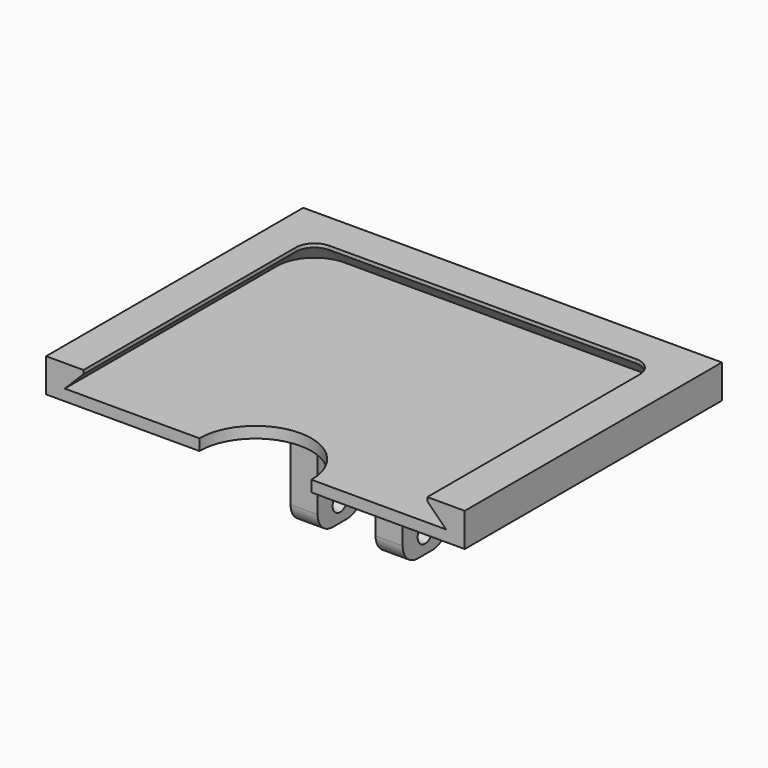
from build123d import *

# Parameters (mm, degrees)
F1_DEPTH  = 6
F2_R      = 5
F3_SIZE   = 5
F5_DEPTH  = 3
F6_W      = 15
F6_H      = 30
F6_R      = 2.5
F7_DEPTH  = 15
F8_DEPTH  = 7.75
F9_W      = 30
F9_H      = 15
F10_DEPTH = 2
F11_R     = 5


with BuildPart() as f1:
    # F0 (on Top) → F1 (new body)
    with BuildSketch(Plane.XY):
        Polygon((-46, -38), (-46, 38), (46, 38), (46, -38), (56.0000004172, -38), (56.0000004172, 48.0000004172), (-56.0000004172, 48.0000004172), (-56.0000004172, -38), align=None)
    extrude(amount=F1_DEPTH)

    # F2
    f2_edges = [f1.edges().sort_by_distance(p)[0] for p in [
        (-46, 38, 3),
        (46, 38, 3),
    ]]
    fillet(f2_edges, radius=F2_R)

    # F3
    f3_edges = [f1.edges().sort_by_distance(p)[0] for p in [
        (-46, -2.5, 0),
    ]]
    chamfer(f3_edges, length=F3_SIZE)

    # F4 (on Top) → F5 (join)
    with BuildSketch(Plane.XY):
        with BuildLine():
            Line((56.0000004172, 48.0000004172), (-56.0000004172, 48.0000004172))
            Line((-56.0000004172, 48.0000004172), (-56.0000004172, -38))
            Line((-56.0000004172, -38), (-15, -38))
            ThreePointArc((-15, -38), (0, -23), (15, -38))
            Line((15, -38), (56.0000004172, -38))
            Line((56.0000004172, -38), (56.0000004172, 48.0000004172))
        make_face()
    extrude(amount=-F5_DEPTH)


with BuildPart() as f7:
    # F6 (on Right) → F7 (new body, symmetric)
    with BuildSketch(Plane.YZ):
        with Locations((0, -18)):
            Rectangle(F6_W, F6_H)
        with Locations((0, -28)):
            Circle(F6_R, mode=Mode.SUBTRACT)
        with Locations((0, -13)):
            Circle(F6_R, mode=Mode.SUBTRACT)
    extrude(amount=F7_DEPTH, both=True)

    # F6 (on Right) → F8 (cut, symmetric)
    with BuildSketch(Plane.YZ):
        with Locations((0, -18)):
            Rectangle(F6_W, F6_H)
        with Locations((0, -28)):
            Circle(F6_R, mode=Mode.SUBTRACT)
        with Locations((0, -13)):
            Circle(F6_R, mode=Mode.SUBTRACT)
    extrude(amount=F8_DEPTH, both=True, mode=Mode.SUBTRACT)

    # F9 (on face) → F10 (join)
    with BuildSketch(Plane(origin=(0, 0, -3), x_dir=(1, 0, 0), z_dir=(0, 0, -1))):
        Rectangle(F9_W, F9_H)
    extrude(amount=F10_DEPTH)

    # F11
    f11_edges = [f7.edges().sort_by_distance(p)[0] for p in [
        (11.375, -7.5, -33),
        (11.375, 7.5, -33),
        (-11.375, -7.5, -33),
        (-11.375, 7.5, -33),
    ]]
    fillet(f11_edges, radius=F11_R)


solid = Compound([f1.part, f7.part])
